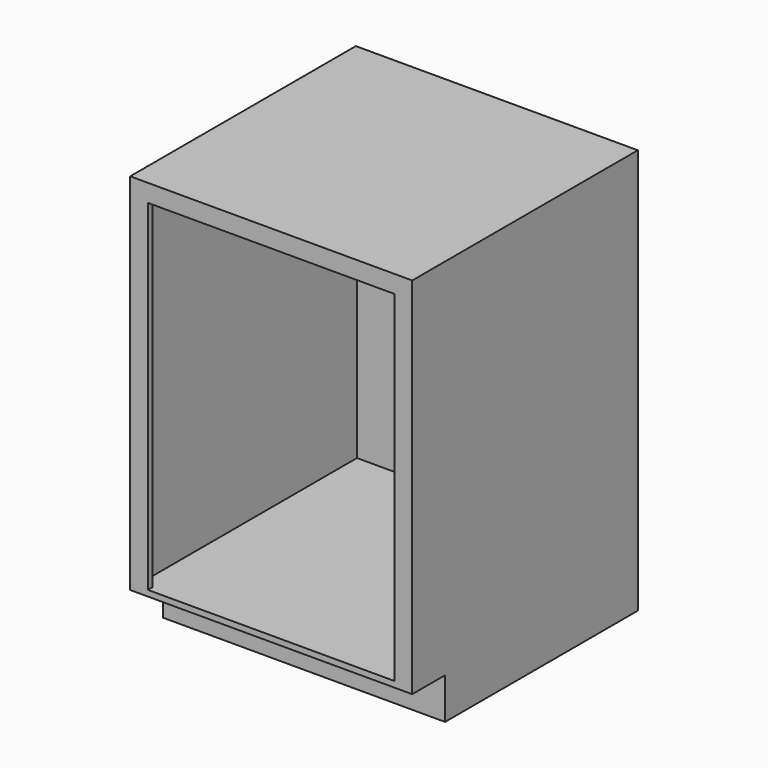
from build123d import *

# Parameters (mm, degrees)
F0_W     = 609.6
F0_H     = 609.6
F1_DEPTH = 876.3
F2_W     = 609.6
F2_H     = 88.9
F3_DEPTH = 88.9
F4_T     = -12.7
F5_DEPTH = 88.9
F6_W     = 609.6
F6_H     = 787.4
F7_DEPTH = 12.7


with BuildPart() as f1:
    # F0 (on Top) → F1 (new body)
    with BuildSketch(Plane.XY):
        with Locations((304.8, -304.8)):
            Rectangle(F0_W, F0_H)
    extrude(amount=F1_DEPTH)

    # F2 (on face) → F3 (cut)
    with BuildSketch(Plane.XZ.offset(609.6)):
        with Locations((304.8, 44.45)):
            Rectangle(F2_W, F2_H)
    extrude(amount=-F3_DEPTH, mode=Mode.SUBTRACT)

    # F4
    f4_openings = [f1.faces().sort_by_distance(p)[0] for p in [
        (304.8, -609.6, 482.6),
    ]]
    offset(amount=F4_T, openings=f4_openings, kind=Kind.INTERSECTION)

    # F5 (add, through all): a face of the model
    f5_faces = [f1.faces().sort_by_distance(p)[0] for p in [
        (304.8, -260.35, 12.7),
    ]]
    extrude(f5_faces, amount=F5_DEPTH)

    # F6 (on face) → F7 (join)
    with BuildSketch(Plane.XZ.offset(609.6)):
        with Locations((304.8, 482.6)):
            Rectangle(F6_W, F6_H)
        Polygon((571.5, 101.6), (38.1, 101.6), (12.7, 101.6), (12.7, 863.6), (596.9, 863.6), (596.9, 101.6), align=None, mode=Mode.SUBTRACT)
        Polygon((38.1, 101.6), (38.1, 838.2), (571.5, 838.2), (571.5, 101.6), (596.9, 101.6), (596.9, 863.6), (12.7, 863.6), (12.7, 101.6), align=None)
    extrude(amount=-F7_DEPTH)


solid = f1.part
